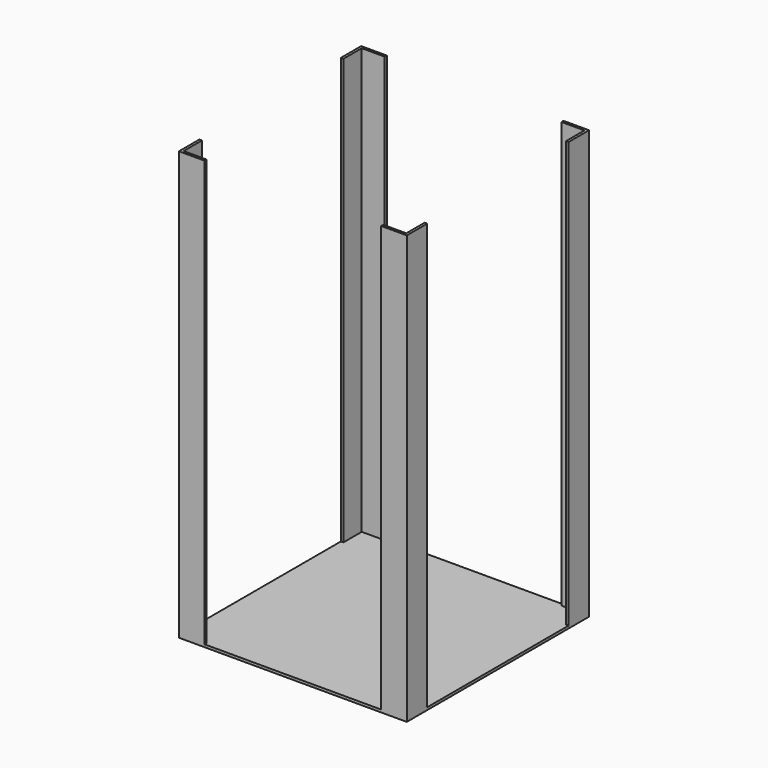
from build123d import *

# Parameters (mm, degrees)
F1_DEPTH = 1000
F2_DEPTH = 6


with BuildPart() as f1:
    # F0 (on Top) → F1 (new body)
    with BuildSketch(Plane.XY):
        Polygon((0, 535), (0, 475), (6, 475), (6, 529), (60, 529), (60, 535), align=None)
    extrude(amount=F1_DEPTH)



with BuildPart() as f1b:
    # F0 (on Top) → F1, piece 2 (new body)
    with BuildSketch(Plane.XY):
        Polygon((529, 475), (535, 475), (535, 535), (475, 535), (475, 529), (529, 529), align=None)
    extrude(amount=F1_DEPTH)


with BuildPart() as f1c:
    # F0 (on Top) → F1, piece 3 (new body)
    with BuildSketch(Plane.XY):
        Polygon((475, 6), (475, 0), (535, 0), (535, 60), (529, 60), (529, 6), align=None)
    extrude(amount=F1_DEPTH)


with BuildPart() as f1d:
    # F0 (on Top) → F1, piece 4 (new body)
    with BuildSketch(Plane.XY):
        Polygon((0, 60), (0, 0), (60, 0), (60, 6), (6, 6), (6, 60), align=None)
    extrude(amount=F1_DEPTH)


with BuildPart() as f1_1:
    add(f1.part)

    add(f1b.part)  # F2 merges F1b

    add(f1c.part)  # F2 merges F1c

    add(f1d.part)  # F2 merges F1d
    # F0 (on Top) → F2 (join)
    with BuildSketch(Plane.XY):
        Polygon((0, 60), (0, 0), (60, 0), (60, 6), (6, 6), (6, 60), align=None)
        Polygon((60, 6), (60, 0), (475, 0), (475, 6), (529, 6), (529, 60), (535, 60), (535, 475), (529, 475), (529, 529), (475, 529), (475, 535), (60, 535), (60, 529), (6, 529), (6, 475), (0, 475), (0, 60), (6, 60), (6, 6), align=None)
        Polygon((475, 6), (475, 0), (535, 0), (535, 60), (529, 60), (529, 6), align=None)
        Polygon((0, 535), (0, 475), (6, 475), (6, 529), (60, 529), (60, 535), align=None)
        Polygon((529, 475), (535, 475), (535, 535), (475, 535), (475, 529), (529, 529), align=None)
    extrude(amount=-F2_DEPTH)


solid = f1_1.part
